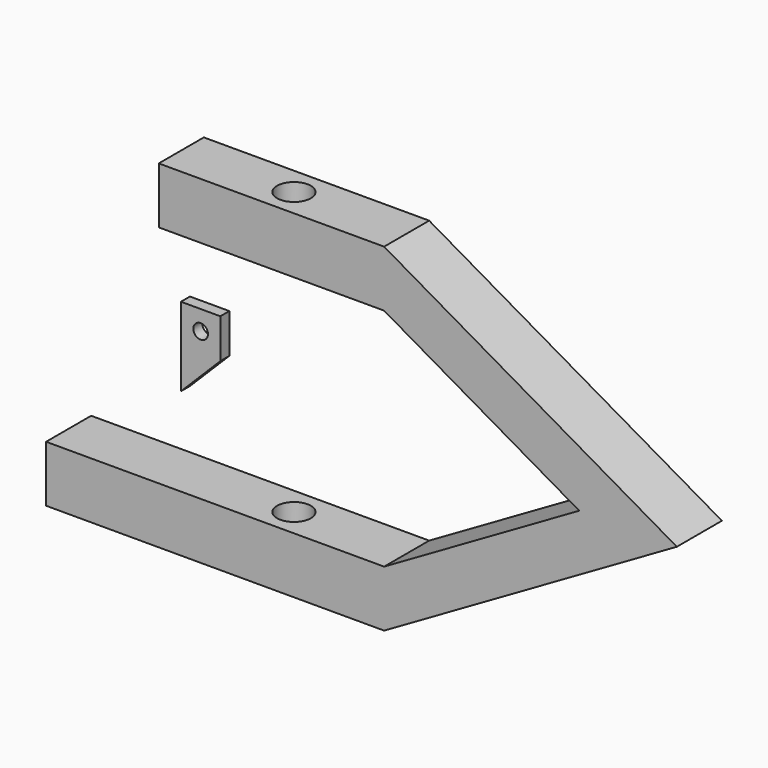
from build123d import *

# Parameters (mm, degrees)
F1_DEPTH = 5
F2_W     = 2
F2_H     = 7
F3_DEPTH = 7
F5_D     = 2.794
F5_DEPTH = 10
F5_TIP   = 0.8394022848
F7_D     = 6
F8_R     = 1.3
F9_DEPTH = 1


with BuildPart() as f1:
    # F0 (on Front) → F1 (new body, symmetric)
    with BuildSketch(Plane.XZ):
        Polygon((0, 30), (-40, 30), (-40, 20), (0, 20), (34.6410161514, 0), (0, -20), (-60, -20), (-60, -30), (0, -30), (51.9615242271, 0), align=None)
    extrude(amount=F1_DEPTH, both=True)

    # F2 (on face) → F3 (cut)
    with BuildSketch(Plane(origin=(0, 0, -30), x_dir=(1, 0, 0), z_dir=(0, 0, -1))):
        with Locations((-57, 0)):
            Rectangle(F2_W, F2_H)
    extrude(amount=-F3_DEPTH, mode=Mode.SUBTRACT)

    # F5
    with Locations(Plane(origin=(-60, 0, 0), x_dir=(0, -1, 0), z_dir=(-1, 0, 0))):
        with Locations((0, -25)):
            Hole(F5_D / 2, depth=F5_DEPTH)
            with Locations((0, 0, -(F5_DEPTH + F5_TIP / 2))):  # 118° drill point
                Cone(0, F5_D / 2, F5_TIP, mode=Mode.SUBTRACT)

    # F7 (through all)
    with Locations(Plane.XY.offset(30)):
        with Locations((-20, 0)):
            Hole(F7_D / 2)


with BuildPart() as f9:
    # F8 (on Front) → F9 (new body, symmetric)
    with BuildSketch(Plane.XZ):
        Polygon((-32.2685841207, 0), (-32.2685841207, 7), (-39.2685841207, 7), (-39.2685841207, 0), (-39.2685841207, -7), align=None)
        with Locations((-35.7685841207, 3.5)):
            Circle(F8_R, mode=Mode.SUBTRACT)
    extrude(amount=F9_DEPTH, both=True)


solid = Compound([f1.part, f9.part])
